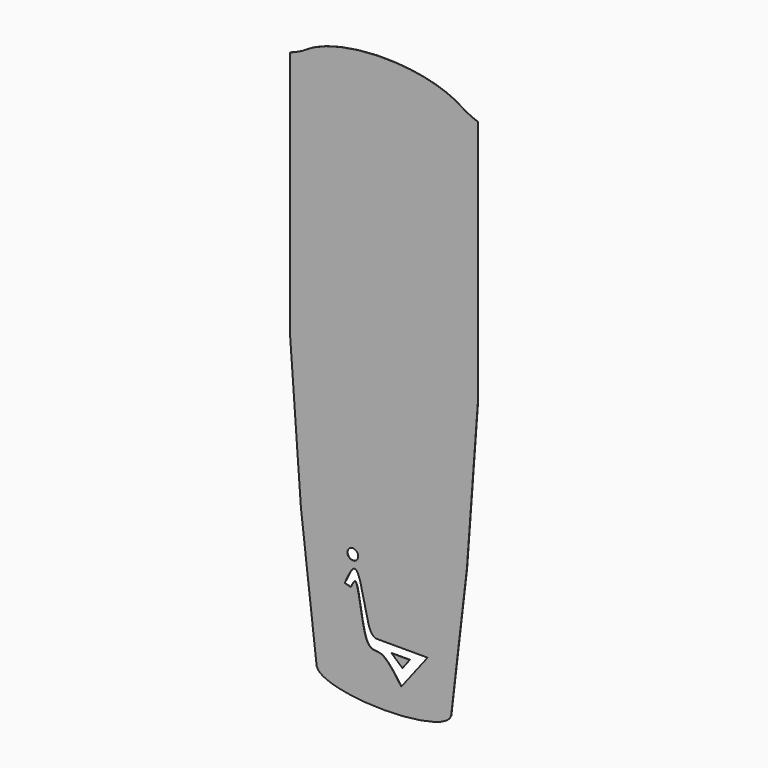
from build123d import *

# Parameters (mm, degrees)
F2_DEPTH = 0.254
F0_R     = 5.1551211406
F3_DEPTH = 40.64


with BuildPart() as f2:
    # F1 (on Front) → F2 (new body)
    with BuildSketch(Plane.XZ):
        with BuildLine():
            Line((98.0293931603, 213.0949995701), (98.0293931603, 447.3398064059))
            ThreePointArc((98.0293931603, 447.3398064059), (89.3689862644, 450.894847932), (81.2344287075, 455.5284147234))
            add(Edge.make_bspline(
                [(81.2344287075, 455.5284147234), (7.8758224845, 503.7908629215), (-65.4827837385, 455.5284147234)],
                knots=[3.6912234215, 3.6912234215, 3.6912234215, 5.7335545392, 5.7335545392, 5.7335545392], degree=2, weights=[1, 0.5223724139, 1]))
            ThreePointArc((-65.4827837385, 455.5284147234), (-73.6173412954, 450.894847932), (-82.2777481914, 447.3398064059))
            Line((-82.2777481914, 447.3398064059), (-82.2777481914, 213.0949995701))
            Line((-82.2777481914, 213.0949995701), (-71.6314016223, 67.2814034059))
            Line((-71.6314016223, 67.2814034059), (-56.52420414, -61.7646081937))
            Line((-56.52420414, -61.7646081937), (-55.4887981594, -63.6801111653))
            add(Edge.make_bspline(
                [(-55.4887981594, -63.6801111653), (-47.8833589118, -77.7501877857), (7.8758224845, -77.7501877857), (63.6350038808, -77.7501877857), (71.2404431284, -63.6801111653)],
                knots=[3.2784171397, 3.2784171397, 3.2784171397, 4.7123889804, 4.7123889804, 6.1463608211, 6.1463608211, 6.1463608211], degree=2, weights=[1, 0.7537897491, 1, 0.7537897491, 1]))
            Line((71.2404431284, -63.6801111653), (72.2758491089, -61.7646081937))
            Line((72.2758491089, -61.7646081937), (87.3830465913, 67.2814034059))
            Line((87.3830465913, 67.2814034059), (98.0293931603, 213.0949995701))
        make_face()
    extrude(amount=F2_DEPTH)

    # F0 (on Front) → F3 (cut)
    with BuildSketch(Plane.XZ):
        with BuildLine():
            Line((-29.6701211482, 17.069382593), (-23.7329415977, 15.5850881711))
            add(Edge.make_bspline(
                [(-23.7329415977, 15.5850881711), (-22.1898984928, 19.0750479001), (-16.8016514541, 31.2618527374), (-12.4587472594, -26.5038893007), (-1.5388254929, -31.0067477607), (7.2099612907, -30.2367893705), (18.6011505638, -43.9117744096), (22.6841914598, -49.982726605), (24.5066136122, -52.6924319565)],
                knots=[0, 0, 0, 0, 0.1189249297, 0.4152812701, 0.5567959501, 0.6768926813, 0.8557844631, 1, 1, 1, 1], degree=3))
            Line((24.5066136122, -52.6924319565), (49.7396066785, -20.037965849))
            Line((49.7396066785, -20.037965849), (0.0157635659, -20.037965849))
            add(Edge.make_bspline(
                [(-29.6701211482, 17.069382593), (-25.888411588, 25.5551709484), (-16.0684249955, 47.59026554), (-8.5800350355, -15.4728792493), (-2.0058823339, -18.9643031175), (0.0157635659, -20.037965849)],
                knots=[0, 0, 0, 0, 0.3025023252, 0.7855094978, 1, 1, 1, 1], degree=3))
        make_face()
        Polygon((15.1328258216, -27.4594351649), (32.6702259481, -27.4594351649), (25.6198346615, -36.7362722754), align=None, mode=Mode.SUBTRACT)
        with Locations((-21.8775775284, 43.7866747379)):
            Circle(F0_R)
    extrude(amount=F3_DEPTH, mode=Mode.SUBTRACT)


solid = f2.part
